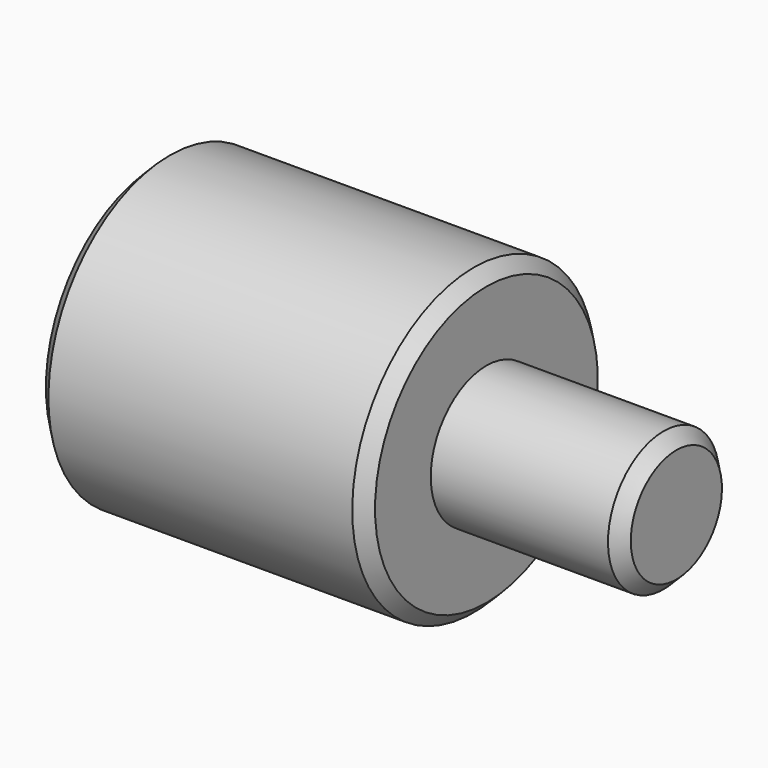
from build123d import *

# Parameters (mm, degrees)
F2_SIZE = 1


with BuildPart() as f1:
    # F0 (on Front) → F1 (revolve)
    with BuildSketch(Plane.XZ):
        Polygon((0, 12), (0, 0), (41, 0), (41, 5.5), (26, 5.5), (26, 12), align=None)
    revolve(axis=Axis((19.196044, 0, 0), (1, 0, 0)))

    # F2
    f2_edges = [f1.edges().sort_by_distance(p)[0] for p in [
        (0, 0, -12),
        (26, 0, -12),
        (41, 0, -5.5),
    ]]
    chamfer(f2_edges, length=F2_SIZE)


solid = f1.part
